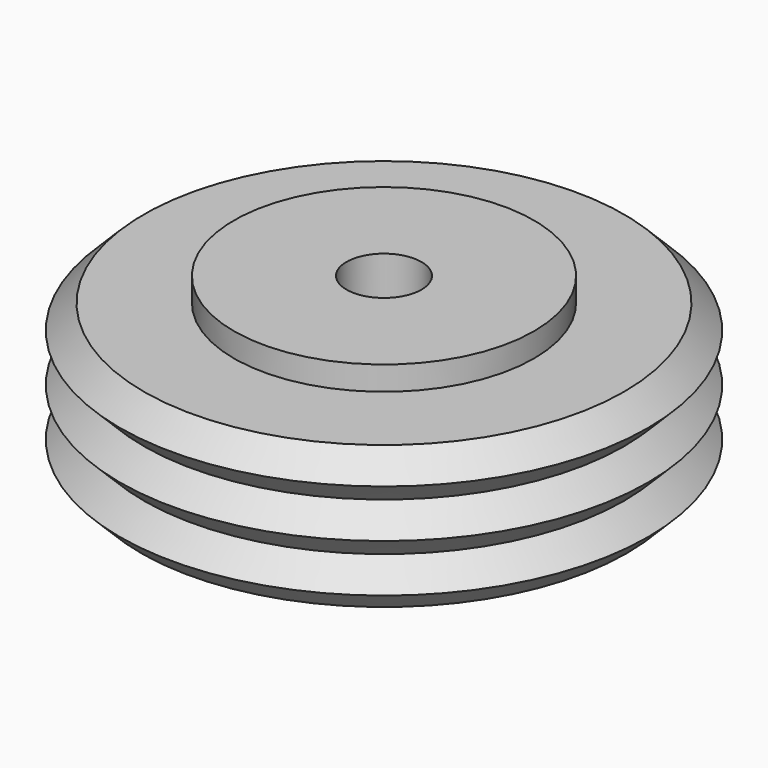
from build123d import *

# Parameters (mm, degrees)
SKETCH002_W   = 5
SKETCH002_H   = 4.7
ARRAY_Z_COUNT = 6
ARRAY_Z_PITCH = 1.6


with BuildPart() as obj1:
    # Sketch002 → Revolution002 (revolve)
    with BuildSketch(Plane.XZ):
        with Locations((7.5, 0.85)):
            Rectangle(SKETCH002_W, SKETCH002_H)
    revolve(axis=Axis((0, 0, 0), (0, 0, 1)))


with BuildPart() as innergroovetool:
    # Sketch001 → Revolution001 (revolve)
    with BuildSketch(Plane.XZ):
        Polygon((4, 3.2), (4, 1.6), (8, 1.6), (8.8, 2.4), (8, 3.2), align=None)
    revolve(axis=Axis((0, 0, 0), (0, 0, 1)))

    # Array Z: InnerGrooveTool ×6


with BuildPart() as innergroovetool_1:
    add(innergroovetool.part)
    with Locations(*[(0, 0, -i * ARRAY_Z_PITCH) for i in range(1, ARRAY_Z_COUNT)]):
        add(innergroovetool.part)

    # Common: intersect obj1
    add(obj1.part, mode=Mode.INTERSECT)


with BuildPart() as obj2:
    # Sketch → Revolution (revolve)
    with BuildSketch(Plane.XZ):
        Polygon((1.25, 4), (1.25, -1.5), (8, -1.5), (8, 3.2), (5, 3.2), (5, 4), align=None)
    revolve(axis=Axis((0, 0, 0), (0, 0, 1)))

    # Fusion001: union InnerGrooveTool
    add(innergroovetool_1.part)


solid = obj2.part
